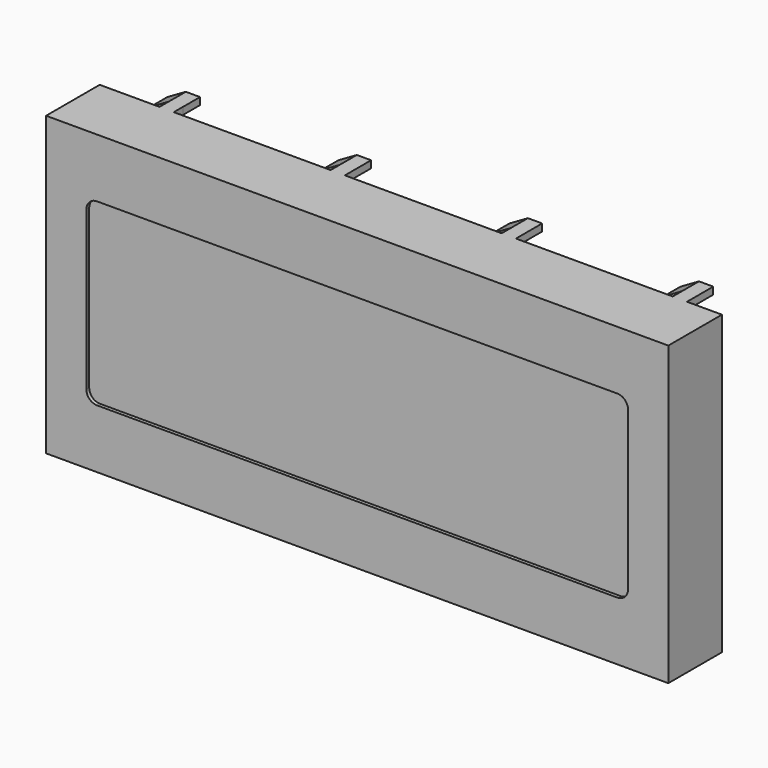
from build123d import *

# Parameters (mm, degrees)
F0_W     = 87.3
F0_H     = 41.7
F1_DEPTH = 9.4
F3_DEPTH = 1
F5_DEPTH = 0.5
F6_W     = 2
F6_H     = 1
F7_DEPTH = 1.6
F9_DEPTH = 3


with BuildPart() as f1:
    # F0 (on Front) → F1 (new body)
    with BuildSketch(Plane.XZ):
        Rectangle(F0_W, F0_H)
    extrude(amount=F1_DEPTH)

    # F2 (on face) → F3 (cut)
    with BuildSketch(Plane.XZ.offset(9.4)):
        with BuildLine():
            ThreePointArc((38, 11.1), (37.56066, 12.16066), (36.5, 12.6))
            Line((36.5, 12.6), (-36.5, 12.6))
            ThreePointArc((-36.5, 12.6), (-37.56066, 12.16066), (-38, 11.1))
            Line((-38, 11.1), (-38, -11.1))
            ThreePointArc((-38, -11.1), (-37.56066, -12.16066), (-36.5, -12.6))
            Line((-36.5, -12.6), (36.5, -12.6))
            ThreePointArc((36.5, -12.6), (37.56066, -12.16066), (38, -11.1))
            Line((38, -11.1), (38, 11.1))
        make_face()
    extrude(amount=-F3_DEPTH, mode=Mode.SUBTRACT)

    # F6 (on face) → F7 (join)
    with BuildSketch(Plane(origin=(0, 0, 0), x_dir=(-1, 0, 0), z_dir=(0, 1, 0))):
        with Locations((10.25, 20.35)):
            Rectangle(F6_W, F6_H)
        with Locations((34.26, 20.35)):
            Rectangle(F6_W, F6_H)
        with Locations((-37.75, 20.35)):
            Rectangle(F6_W, F6_H)
        with Locations((-13.75, 20.35)):
            Rectangle(F6_W, F6_H)
        with Locations((-13.75, -20.35)):
            Rectangle(F6_W, F6_H)
        with Locations((-37.75, -20.35)):
            Rectangle(F6_W, F6_H)
        with Locations((34.26, -20.35)):
            Rectangle(F6_W, F6_H)
        with Locations((10.25, -20.35)):
            Rectangle(F6_W, F6_H)
    extrude(amount=F7_DEPTH)

    # F8 (on face) → F9 (join)
    with BuildSketch(Plane(origin=(0, 1.6, 0), x_dir=(-1, 0, 0), z_dir=(0, 1, 0))):
        Polygon((-36.75, 20.85), (-38.75, 20.85), (-38.75, 19.85), (-36.75, 19.85), (-34.584936, 18.6), (-34.151924, 19.35), align=None)
        Polygon((-14.75, 19.85), (-12.75, 19.85), (-10.584936, 18.6), (-10.151924, 19.35), (-12.75, 20.85), (-14.75, 20.85), align=None)
        Polygon((9.25, 19.85), (11.25, 19.85), (13.415064, 18.6), (13.848076, 19.35), (11.25, 20.85), (9.25, 20.85), align=None)
        Polygon((33.25, 19.85), (35.25, 19.85), (37.415064, 18.6), (37.848076, 19.35), (35.25, 20.85), (33.25, 20.85), align=None)
        Polygon((-38.75, -19.85), (-38.75, -20.85), (-36.75, -20.85), (-34.151924, -19.35), (-34.584936, -18.6), (-36.75, -19.85), align=None)
        Polygon((-14.75, -19.85), (-14.75, -20.85), (-12.75, -20.85), (-10.151924, -19.35), (-10.584936, -18.6), (-12.75, -19.85), align=None)
        Polygon((11.25, -19.85), (9.25, -19.85), (9.25, -20.85), (11.25, -20.85), (13.848076, -19.35), (13.415064, -18.6), align=None)
        Polygon((37.415064, -18.6), (35.25, -19.85), (33.25, -19.85), (33.25, -20.85), (35.25, -20.85), (37.848076, -19.35), align=None)
    extrude(amount=F9_DEPTH)


with BuildPart() as f5:
    # F4 (on face) → F5 (new body)
    with BuildSketch(Plane.XZ.offset(8.4)):
        with BuildLine():
            ThreePointArc((-36.5, 12.6), (-37.56066, 12.16066), (-38, 11.1))
            Line((-38, 11.1), (-38, -11.1))
            ThreePointArc((-38, -11.1), (-37.56066, -12.16066), (-36.5, -12.6))
            Line((-36.5, -12.6), (36.5, -12.6))
            ThreePointArc((36.5, -12.6), (37.56066, -12.16066), (38, -11.1))
            Line((38, -11.1), (38, 11.1))
            ThreePointArc((38, 11.1), (37.56066, 12.16066), (36.5, 12.6))
            Line((36.5, 12.6), (-36.5, 12.6))
        make_face()
    extrude(amount=F5_DEPTH)


solid = Compound([f1.part, f5.part])
